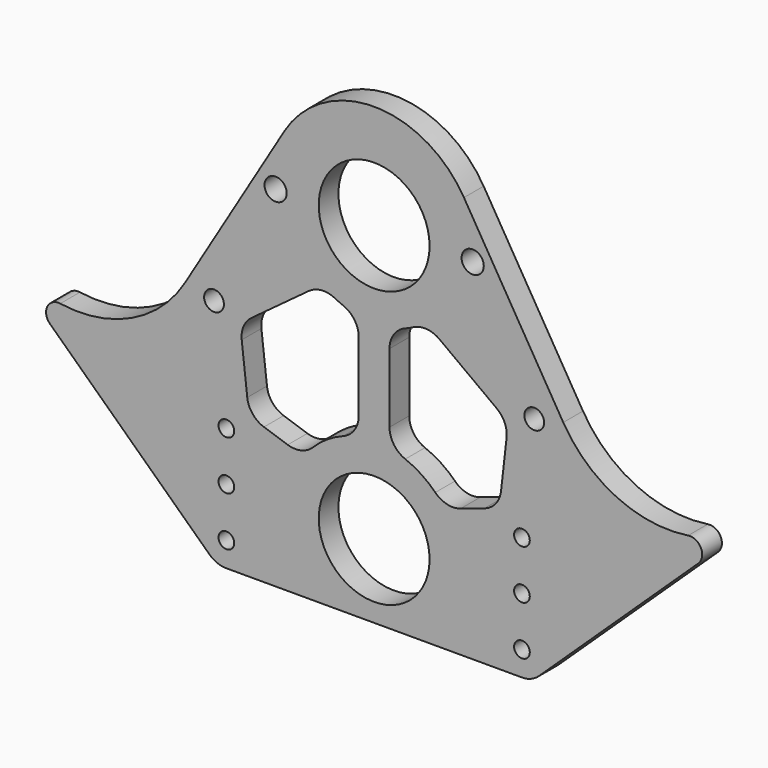
from build123d import *

# Parameters (mm, degrees)
F0_R     = 2.0193
F0_R_2   = 14.2875
F0_R_3   = 2.5527
F0_R_4   = 2.8575
F1_DEPTH = 6.35
F3_DEPTH = 6.351
F4_R     = 6.35


with BuildPart() as f1:
    # F0 (on Front) → F1 (new body)
    with BuildSketch(Plane.XZ):
        with BuildLine():
            ThreePointArc((-48.749763, 42.283305), (-62.529838, 29.799935), (-80.924107, 27.084083))
            ThreePointArc((-80.924107, 27.084083), (-84.247136, 25.334263), (-83.576453, 21.639053))
            Line((-83.576453, 21.639053), (-42.467369, -17.309619))
            ThreePointArc((-42.467369, -17.309619), (-40.450683, -18.59888), (-38.1, -19.05))
            Line((-38.1, -19.05), (38.1, -19.05))
            ThreePointArc((38.1, -19.05), (40.450683, -18.59888), (42.467369, -17.309619))
            Line((42.467369, -17.309619), (83.576453, 21.639053))
            ThreePointArc((83.576453, 21.639053), (84.247136, 25.334263), (80.924107, 27.084083))
            ThreePointArc((80.924107, 27.084083), (62.529838, 29.799935), (48.749763, 42.283305))
            Line((48.749763, 42.283305), (23.147521, 84.995065))
            ThreePointArc((23.147521, 84.995065), (0, 98.1075), (-23.147521, 84.995065))
            Line((-23.147521, 84.995065), (-48.749763, 42.283305))
        make_face()
        with Locations((-38.1, -12.7)):
            Circle(F0_R, mode=Mode.SUBTRACT)
        with Locations((-38.1, 0)):
            Circle(F0_R, mode=Mode.SUBTRACT)
        Circle(F0_R_2, mode=Mode.SUBTRACT)
        with Locations((-38.1, 12.7)):
            Circle(F0_R, mode=Mode.SUBTRACT)
        with Locations((38.1, -12.7)):
            Circle(F0_R, mode=Mode.SUBTRACT)
        with Locations((38.1, 0)):
            Circle(F0_R, mode=Mode.SUBTRACT)
        with Locations((38.1, 12.7)):
            Circle(F0_R, mode=Mode.SUBTRACT)
        with Locations((-41.275, 40.64)):
            Circle(F0_R_3, mode=Mode.SUBTRACT)
        with Locations((-25.4, 71.12)):
            Circle(F0_R_4, mode=Mode.SUBTRACT)
        with Locations((0, 71.12)):
            Circle(F0_R_2, mode=Mode.SUBTRACT)
        with Locations((41.275, 40.64)):
            Circle(F0_R_3, mode=Mode.SUBTRACT)
        with Locations((25.4, 71.12)):
            Circle(F0_R_4, mode=Mode.SUBTRACT)
    extrude(amount=F1_DEPTH)

    # F2 (on face) → F3 (cut, through all)
    with BuildSketch(Plane.XZ.offset(6.35)):
        with BuildLine():
            Line((3.96875, 49.252224), (3.96875, 21.867776))
            ThreePointArc((3.96875, 21.867776), (11.982359, 18.718272), (18.19753, 12.759331))
            Line((18.19753, 12.759331), (32.248092, 17.442852))
            Line((32.248092, 17.442852), (34.551338, 37.71141))
            Line((34.551338, 37.71141), (13.361087, 53.359595))
            ThreePointArc((13.361087, 53.359595), (8.904967, 50.75699), (3.96875, 49.252224))
        make_face()
        with BuildLine():
            ThreePointArc((-18.19753, 12.759331), (-11.982359, 18.718272), (-3.96875, 21.867776))
            Line((-3.96875, 21.867776), (-3.96875, 49.252224))
            ThreePointArc((-3.96875, 49.252224), (-8.904967, 50.75699), (-13.361087, 53.359595))
            Line((-13.361087, 53.359595), (-34.551338, 37.71141))
            Line((-34.551338, 37.71141), (-32.248092, 17.442852))
            Line((-32.248092, 17.442852), (-18.19753, 12.759331))
        make_face()
    extrude(amount=-F3_DEPTH, mode=Mode.SUBTRACT)

    # F4
    f4_edges = [f1.edges().sort_by_distance(p)[0] for p in [
        (-13.361087, -3.175, 53.359595),
        (-3.96875, -3.175, 49.252224),
        (-3.96875, -3.175, 21.867776),
        (-18.19753, -3.175, 12.759331),
        (-32.248092, -3.175, 17.442852),
        (-34.551338, -3.175, 37.71141),
        (3.96875, -3.175, 49.252224),
        (13.361087, -3.175, 53.359595),
        (34.551338, -3.175, 37.71141),
        (32.248092, -3.175, 17.442852),
        (18.19753, -3.175, 12.759331),
        (3.96875, -3.175, 21.867776),
    ]]
    fillet(f4_edges, radius=F4_R)


solid = f1.part
